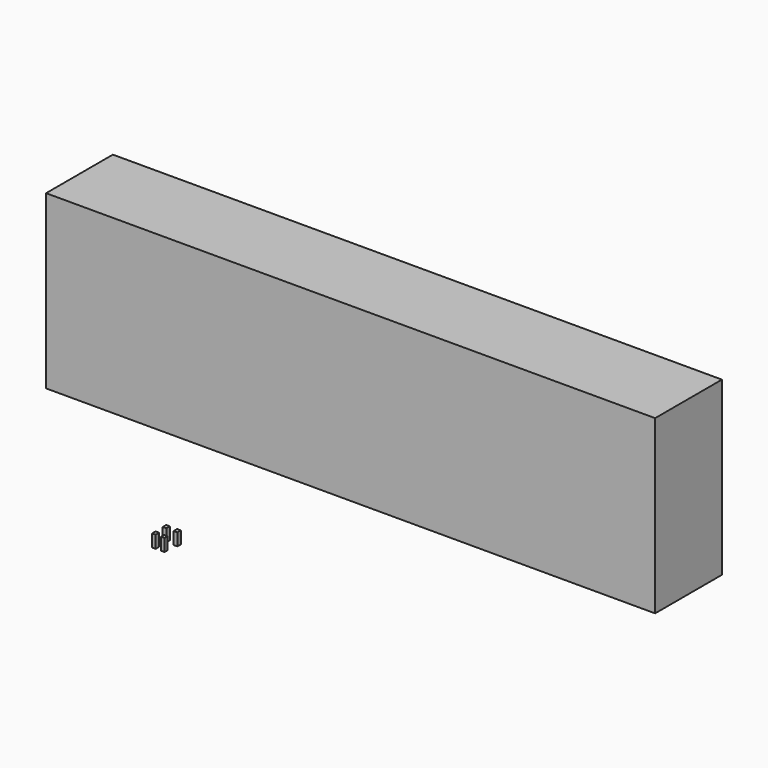
from build123d import *

# Parameters (mm, degrees)
F0_W      = 14.9299055338
F0_H      = 17.7132710814
F1_DEPTH  = 50.8
F2_W      = 14.9299055338
F2_H      = 17.7132710814
F3_DEPTH  = 50.8
F4_W      = 14.9299055338
F4_H      = 17.7132710814
F5_DEPTH  = 50.8
F6_W      = 15.0041207671
F6_H      = 15.6318694353
F7_DEPTH  = 50.8
F8_W      = 52.1195940673
F8_H      = 73.2580646873
F9_DEPTH  = 50.8
F10_W     = 341.2319123745
F10_H     = 702.4627327919
F11_DEPTH = 2489.2


with BuildPart() as f1:
    # F0 (on Top) → F1 (new body)
    with BuildSketch(Plane.XY):
        with Locations((-43.5579791665, -56.0692213476)):
            Rectangle(F0_W, F0_H)
    extrude(amount=F1_DEPTH)

    # F8 (on Top) → F9 (cut)
    with BuildSketch(Plane.XY):
        with Locations((-43.2957876474, -1.6988962889)):
            Rectangle(F8_W, F8_H)
    extrude(amount=-F9_DEPTH, mode=Mode.SUBTRACT)


with BuildPart() as f3:
    # F2 (on Top) → F3 (new body)
    with BuildSketch(Plane.XY):
        with Locations((-44.9225041084, 0)):
            Rectangle(F2_W, F2_H)
    extrude(amount=F3_DEPTH)


with BuildPart() as f5:
    # F4 (on Top) → F5 (new body)
    with BuildSketch(Plane.XY):
        Rectangle(F4_W, F4_H)
    extrude(amount=F5_DEPTH)


with BuildPart() as f7:
    # F6 (on Top) → F7 (new body)
    with BuildSketch(Plane.XY):
        with Locations((-7.5020603836, -56.6995218396)):
            Rectangle(F6_W, F6_H)
    extrude(amount=F7_DEPTH)


with BuildPart() as f11:
    # F10 (on Right) → F11 (new body)
    with BuildSketch(Plane.YZ):
        with Locations((-499.5325952768, 1186.3350570202)):
            Rectangle(F10_W, F10_H)
    extrude(amount=F11_DEPTH)


solid = Compound([f1.part, f3.part, f5.part, f7.part, f11.part])
